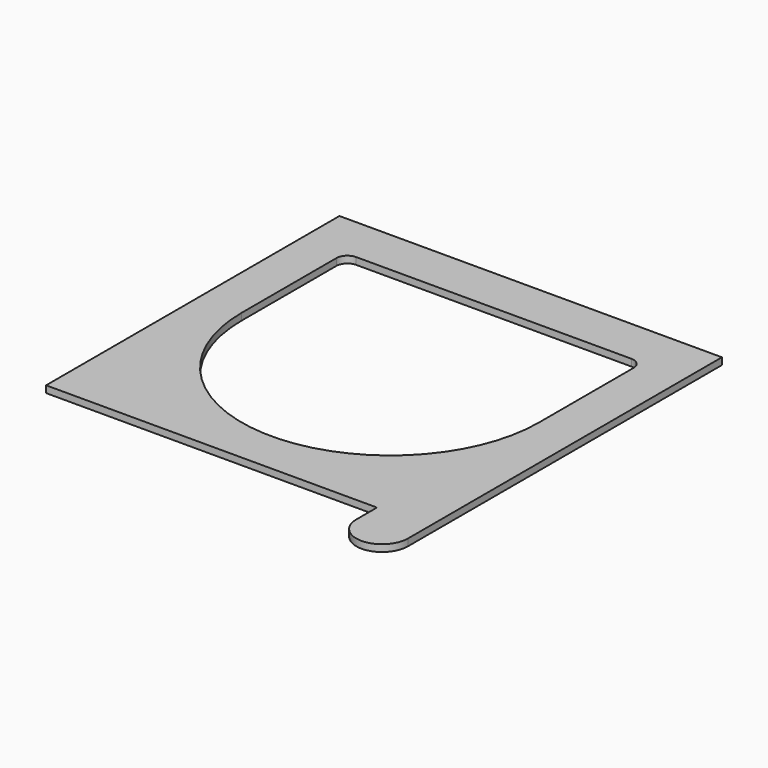
from build123d import *

# Parameters (mm, degrees)
PAD_DEPTH = 10
FILLET_R  = 16


with BuildPart() as part:
    # Sketch → Pad (new body)
    with BuildSketch(Plane.XY):
        with BuildLine():
            Line((-278, -266.5), (-278, 266.5))
            Line((-278, 266.5), (278, 266.5))
            Line((278, 266.5), (278, -304))
            ThreePointArc((203, -304), (240.5, -341.5), (278, -304))
            Line((203, -266.5), (203, -304))
            Line((-278, -266.5), (203, -266.5))
        make_face()
        with BuildLine():
            Line((-216, 11.5), (-216, 199.5))
            Line((-216, 199.5), (216, 199.5))
            Line((216, 199.5), (216, 11.5))
            ThreePointArc((-216, 11.5), (0, -204.5), (216, 11.5))
        make_face(mode=Mode.SUBTRACT)
    extrude(amount=PAD_DEPTH)

    # Fillet
    fillet_edges = [part.edges().sort_by_distance(p)[0] for p in [
        (-216, 199.5, 5),
        (216, 199.5, 5),
    ]]
    fillet(fillet_edges, radius=FILLET_R)


solid = part.part
